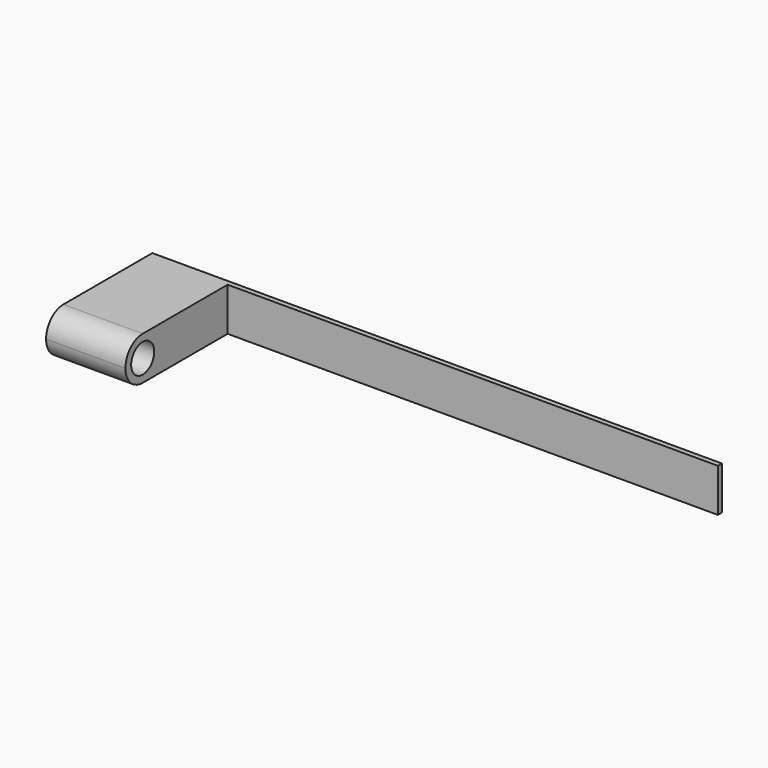
from build123d import *

# Parameters (mm, degrees)
F0_W      = 279.4
F0_H      = 330.2
F1_DEPTH  = 152.4
F3_D      = 101.6
F5_DEPTH  = 279.4
F7_DEPTH  = 137.7526689321
F8_W      = 17.7074246799
F8_H      = 152.4
F9_DEPTH  = 1397
F11_DEPTH = 330.2


with BuildPart() as f1:
    # F0 (on Top) → F1 (new body)
    with BuildSketch(Plane.XY):
        with Locations((15.0600075722, 36.8478087073)):
            Rectangle(F0_W, F0_H)
    extrude(amount=F1_DEPTH)

    # F3 (through all)
    with Locations(Plane.YZ.offset(154.7600075722)):
        with Locations((-52.0521912927, 76.2)):
            Hole(F3_D / 2)

    # F4 (on face) → F5 (cut)
    with BuildSketch(Plane(origin=(-124.6399924278, 0, 0), x_dir=(0, -1, 0), z_dir=(-1, 0, 0))):
        with BuildLine():
            ThreePointArc((128.2521912927, 76.2), (105.9337280192, 22.3184632736), (52.0521912927, 0))
            Line((52.0521912927, 0), (65.0011226535, 0))
            Line((65.0011226535, 0), (128.2521912927, 0))
            Line((128.2521912927, 0), (128.2521912927, 76.2))
        make_face()
        with BuildLine():
            ThreePointArc((52.0521912927, 152.4), (105.9337280192, 130.0815367264), (128.2521912927, 76.2))
            Line((128.2521912927, 76.2), (128.2521912927, 152.4))
            Line((128.2521912927, 152.4), (65.0011226535, 152.4))
            Line((65.0011226535, 152.4), (52.0521912927, 152.4))
        make_face()
    extrude(amount=-F5_DEPTH, mode=Mode.SUBTRACT)

    # F7 (add): a face of the model
    f7_faces = [f1.faces().sort_by_distance(p)[0] for p in [
        (15.0600075722, 201.9478087073, 76.2),
    ]]
    extrude(f7_faces, amount=F7_DEPTH)

    # F8 (on face) → F9 (join)
    with BuildSketch(Plane.YZ.offset(154.7600075722)):
        with Locations((330.8467652994, 76.2)):
            Rectangle(F8_W, F8_H)
    extrude(amount=F9_DEPTH)

    # F11 (add): a face of the model
    f11_faces = [f1.faces().sort_by_distance(p)[0] for p in [
        (1551.7600075722, 330.8467652994, 76.2),
    ]]
    extrude(f11_faces, amount=F11_DEPTH)


solid = f1.part
